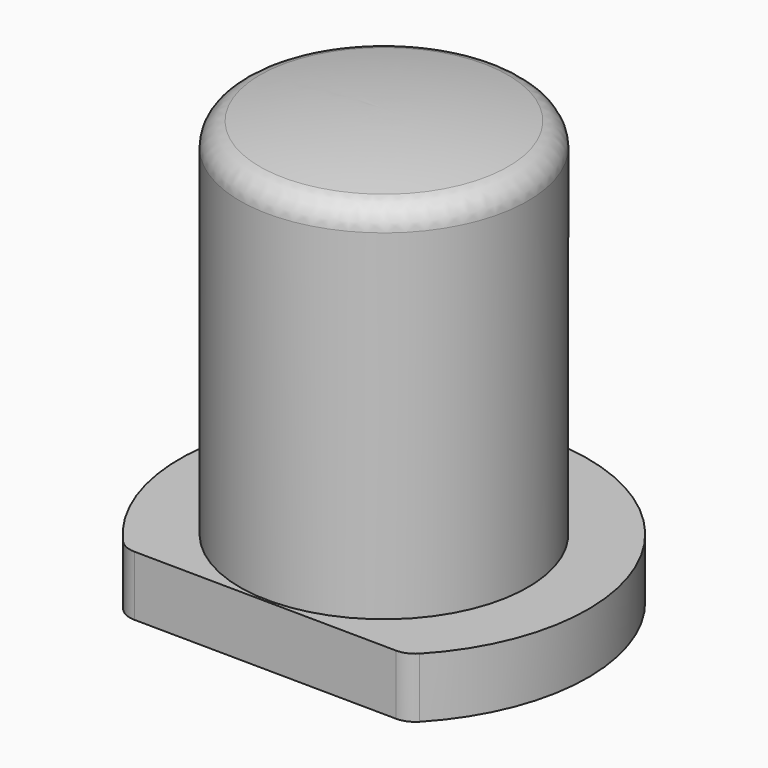
from build123d import *

# Parameters (mm, degrees)
F3_DEPTH = 25.4
F4_R     = 0.508


with BuildPart() as f1:
    # F0 (on Front) → F1 (revolve)
    with BuildSketch(Plane.XZ):
        with BuildLine():
            ThreePointArc((0, 0.303794), (-1.531551, 0.227658), (-3.048, 0))
            Line((-3.048, 0), (-3.048, -7.62))
            Line((-3.048, -7.62), (-4.318, -7.62))
            Line((-4.318, -7.62), (-4.318, -8.89))
            Line((-4.318, -8.89), (0, -8.89))
            Line((0, -8.89), (0, 0.303794))
        make_face()
    revolve(axis=Axis((0, 0, -4.293103), (0, 0, -1)))

    # F2 (on face) → F3 (cut)
    with BuildSketch(Plane.XY.offset(-7.62)):
        Polygon((6.701776, -3.17459), (-6.08382, -3.029804), (-6.08382, -7.557684), (6.701776, -7.557684), align=None)
    extrude(amount=-F3_DEPTH, mode=Mode.SUBTRACT)

    # F4
    f4_edges = [f1.edges().sort_by_distance(p)[0] for p in [
        (3.048, 0, 0),
        (-3.042288, -3.064247, -8.255),
        (2.972116, -3.132355, -8.255),
    ]]
    fillet(f4_edges, radius=F4_R)


solid = f1.part
